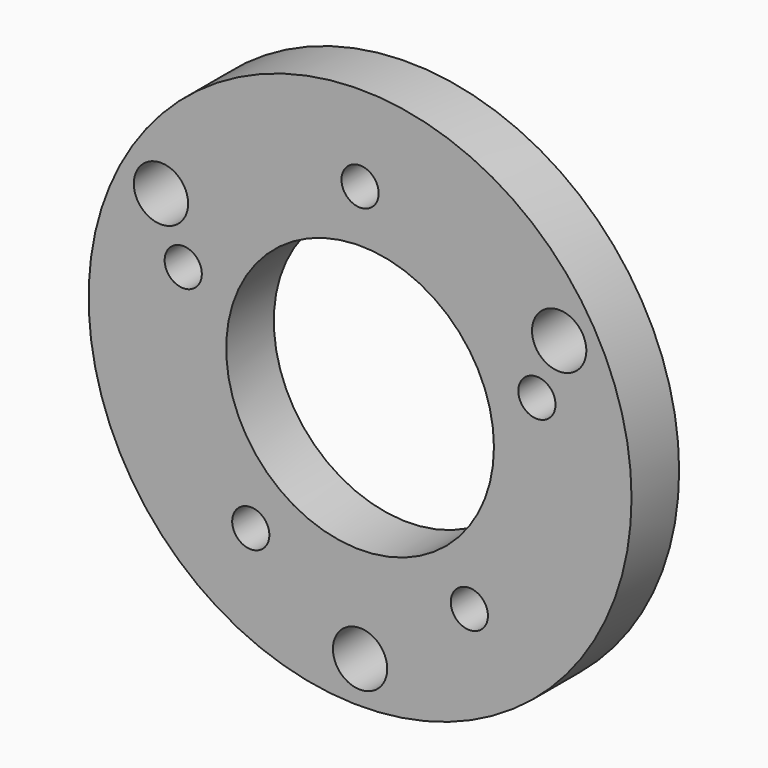
from build123d import *

# Parameters (mm, degrees)
F0_R     = 18.25
F0_R_2   = 1.25
F0_R_3   = 9
F1_DEPTH = 4
F2_R     = 1.825
F3_DEPTH = 25


with BuildPart() as f1:
    # F0 (on Front) → F1 (new body)
    with BuildSketch(Plane.XZ):
        Circle(F0_R)
        with Locations((-7.347316, -10.112712)):
            Circle(F0_R_2, mode=Mode.SUBTRACT)
        with Locations((7.347316, -10.112712)):
            Circle(F0_R_2, mode=Mode.SUBTRACT)
        with Locations((-11.888206, 3.862712)):
            Circle(F0_R_2, mode=Mode.SUBTRACT)
        Circle(F0_R_3, mode=Mode.SUBTRACT)
        with Locations((11.888206, 3.862712)):
            Circle(F0_R_2, mode=Mode.SUBTRACT)
        with Locations((0, 12.5)):
            Circle(F0_R_2, mode=Mode.SUBTRACT)
    extrude(amount=-F1_DEPTH)

    # F2 (on face) → F3 (cut)
    with BuildSketch(Plane(origin=(0, 4, 0), x_dir=(-1, 0, 0), z_dir=(0, 1, 0))):
        with Locations((-13.384261, 7.727407)):
            Circle(F2_R)
        with Locations((13.384261, 7.727407)):
            Circle(F2_R)
        with Locations((0, -15.454813)):
            Circle(F2_R)
    extrude(amount=-F3_DEPTH, mode=Mode.SUBTRACT)


solid = f1.part
